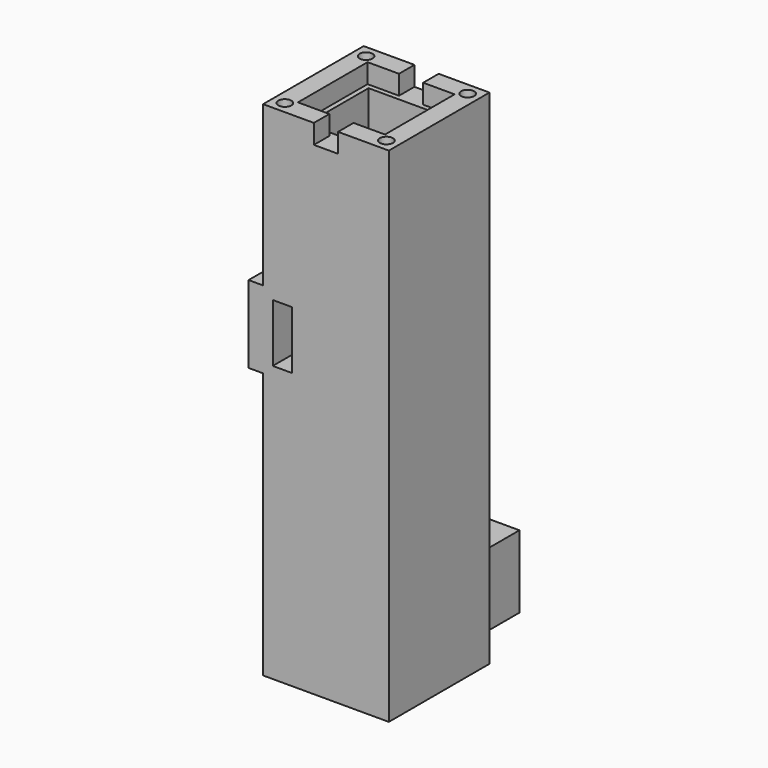
from build123d import *

# Parameters (mm, degrees)
F0_W      = 26
F0_H      = 26
F0_W_2    = 16
F0_H_2    = 16
F1_DEPTH  = 2
F2_DEPTH  = 100
F3_W      = 26
F3_H      = 26
F3_W_2    = 18
F3_H_2    = 18
F4_DEPTH  = 4
F5_W      = 5
F5_H      = 4
F6_DEPTH  = 4
F7_D      = 2.7
F7_DEPTH  = 4
F7_TIP    = 0.8111618357
F9_W      = 3
F9_H      = 16
F10_DEPTH = 26
F11_W     = 4
F11_H     = 12
F12_DEPTH = 20
F13_W     = 16
F13_H     = 15
F14_DEPTH = 40


with BuildPart() as f1:
    # F0 (on Top) → F1 (new body)
    with BuildSketch(Plane.XY):
        Rectangle(F0_W, F0_H)
        Rectangle(F0_W_2, F0_H_2, mode=Mode.SUBTRACT)
        Rectangle(F0_W, F0_H)
        Rectangle(F0_W_2, F0_H_2, mode=Mode.SUBTRACT)
        Rectangle(F0_W_2, F0_H_2)
    extrude(amount=F1_DEPTH)

    # F0 (on Top) → F2 (join)
    with BuildSketch(Plane.XY):
        Rectangle(F0_W, F0_H)
        Rectangle(F0_W_2, F0_H_2, mode=Mode.SUBTRACT)
        Rectangle(F0_W, F0_H)
        Rectangle(F0_W_2, F0_H_2, mode=Mode.SUBTRACT)
    extrude(amount=F2_DEPTH)

    # F3 (on face) → F4 (join)
    with BuildSketch(Plane.XY.offset(100)):
        Rectangle(F3_W, F3_H)
        Rectangle(F3_W_2, F3_H_2, mode=Mode.SUBTRACT)
    extrude(amount=F4_DEPTH)

    # F5 (on face) → F6 (cut, through all)
    with BuildSketch(Plane.XY.offset(104)):
        with Locations((0, -11)):
            Rectangle(F5_W, F5_H)
        with Locations((0, 11)):
            Rectangle(F5_W, F5_H)
    extrude(amount=-F6_DEPTH, mode=Mode.SUBTRACT)

    # F7
    with Locations(Plane.XY.offset(104)):
        with Locations((-10.5, 10.5), (10.5, 10.5), (-10.5, -10.5), (10.5, -10.5)):
            Hole(F7_D / 2, depth=F7_DEPTH)
            with Locations((0, 0, -(F7_DEPTH + F7_TIP / 2))):  # 118° drill point
                Cone(0, F7_D / 2, F7_TIP, mode=Mode.SUBTRACT)

    # F9 (on face) → F10 (join)
    with BuildSketch(Plane.XZ.offset(13)):
        with Locations((-14.5, 63)):
            Rectangle(F9_W, F9_H)
    extrude(amount=-F10_DEPTH)

    # F11 (on face) → F12 (cut)
    with BuildSketch(Plane.XZ.offset(13)):
        with Locations((-9, 63)):
            Rectangle(F11_W, F11_H)
    extrude(amount=-F12_DEPTH, mode=Mode.SUBTRACT)

    # F13 (on face) → F14 (join)
    with BuildSketch(Plane.XZ.offset(13)):
        with Locations((0, 9.5)):
            Rectangle(F13_W, F13_H)
    extrude(amount=-F14_DEPTH)


solid = f1.part
